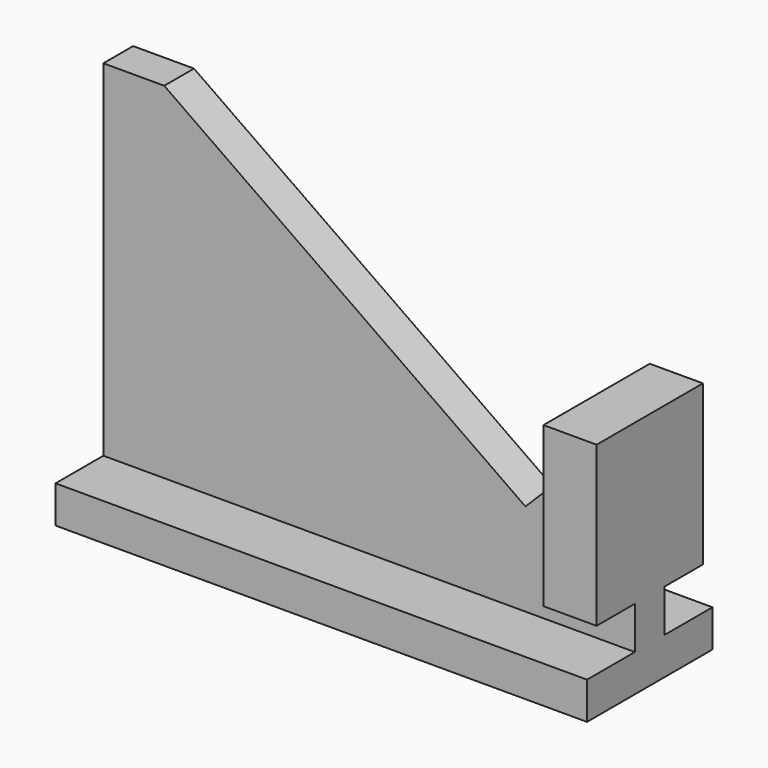
from build123d import *

# Parameters (mm, degrees)
PAD_DEPTH         = 20
POCKET_DEPTH      = 2.951
POCKET_DEPTH_BACK = -2.951
PAD001_DEPTH      = 2
PAD002_DEPTH      = 0.7


with BuildPart() as part:
    # Sketch → Pad (new body)
    with BuildSketch(Plane.YZ):
        Polygon((-2.95, 0), (-2.95, 1.4), (-0.7, 1.4), (-0.7, 14.4), (0.7, 14.4), (0.7, 1.4), (2.95, 1.4), (2.95, 0), align=None)
    extrude(amount=PAD_DEPTH)

    # Sketch002 → Pocket (cut, two sides)
    with BuildSketch(Plane.XZ) as pocket_sk:
        Polygon((20, 14.4), (2.290965, 14.4), (20, 2), align=None)
    extrude(amount=-POCKET_DEPTH, mode=Mode.SUBTRACT)
    extrude(pocket_sk.sketch, amount=-POCKET_DEPTH_BACK, mode=Mode.SUBTRACT)

    # Sketch001 (on DatumPlane) → Pad001 (join)
    with BuildSketch(Plane.YZ.offset(20)):
        Polygon((-2.5, 9), (2.5, 9), (2.5, 3), (0.7, 3), (0.7, 1.4), (-0.7, 1.4), (-0.7, 3), (-2.5, 3), align=None)
    extrude(amount=-PAD001_DEPTH)

    # Sketch003 → Pad002 (join, symmetric)
    with BuildSketch(Plane.XZ):
        Polygon((20, 3), (14, 3), (20, 9), align=None)
    extrude(amount=PAD002_DEPTH, both=True)


solid = part.part
